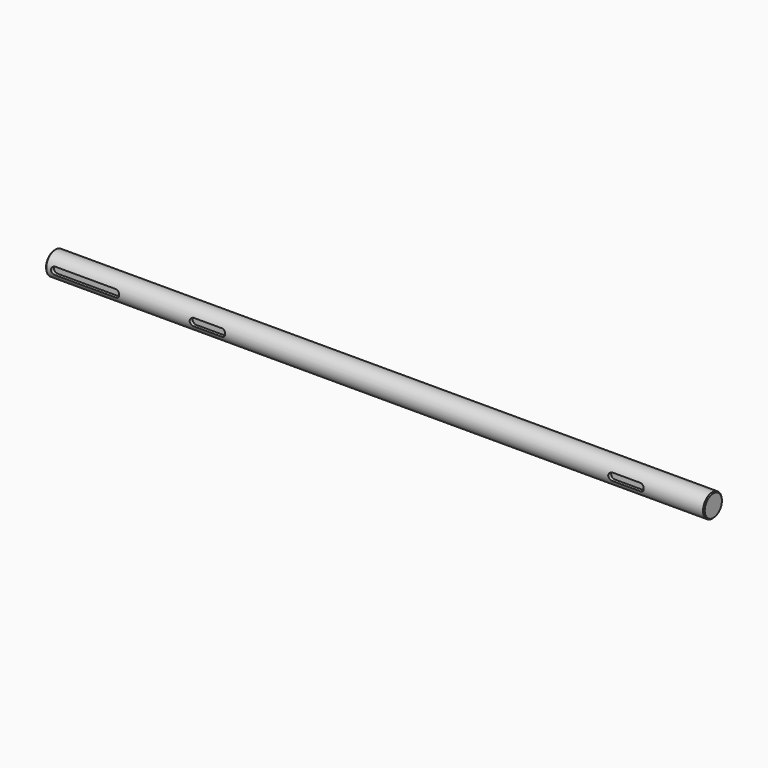
from build123d import *

# Parameters (mm, degrees)
F0_R     = 12.5
F1_DEPTH = 352.5
F4_DEPTH = 4
F5_SIZE  = 1


with BuildPart() as f1:
    # F0 (on Right) → F1 (new body, symmetric)
    with BuildSketch(Plane.YZ):
        Circle(F0_R)
    extrude(amount=F1_DEPTH, both=True)

    # F3 (on offset) → F4 (cut)
    with BuildSketch(Plane.XZ.offset(12.5)):
        with BuildLine():
            ThreePointArc((-342.5, 4), (-346.5, 0), (-342.5, -4))
            Line((-342.5, -4), (-277.5, -4))
            ThreePointArc((-277.5, -4), (-273.5, 0), (-277.5, 4))
            Line((-277.5, 4), (-342.5, 4))
        make_face()
        with BuildLine():
            ThreePointArc((-194, 4), (-198, 0), (-194, -4))
            Line((-194, -4), (-164, -4))
            ThreePointArc((-164, -4), (-160, 0), (-164, 4))
            Line((-164, 4), (-194, 4))
        make_face()
        with BuildLine():
            ThreePointArc((254, 4), (250, 0), (254, -4))
            Line((254, -4), (284, -4))
            ThreePointArc((284, -4), (288, 0), (284, 4))
            Line((284, 4), (254, 4))
        make_face()
    extrude(amount=-F4_DEPTH, mode=Mode.SUBTRACT)

    # F5
    f5_edges = [f1.edges().sort_by_distance(p)[0] for p in [
        (352.5, -12.5, 0),
        (-352.5, -12.5, 0),
    ]]
    chamfer(f5_edges, length=F5_SIZE)


solid = f1.part
